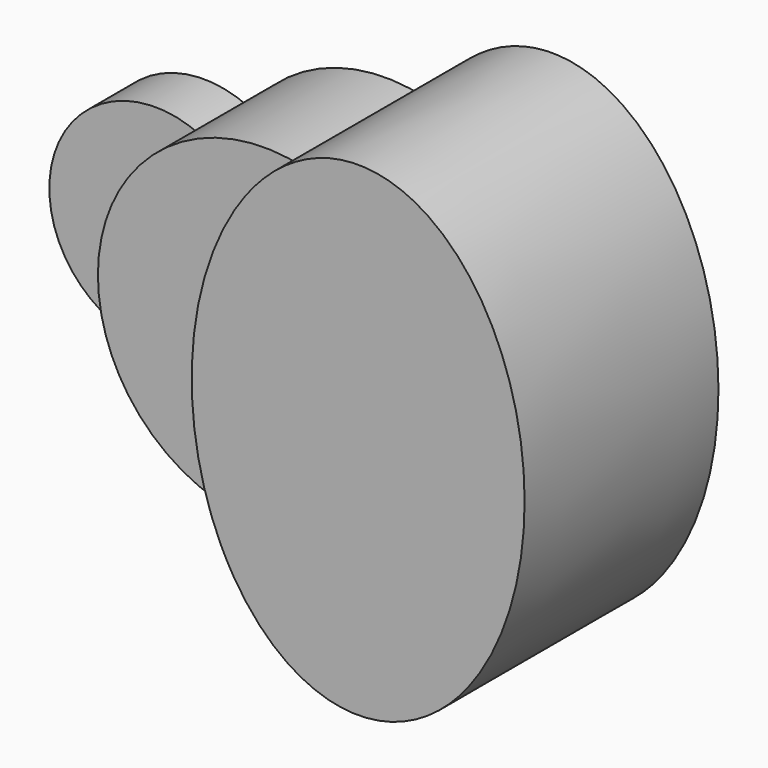
from build123d import *

# Parameters (mm, degrees)
F1_DEPTH = 25.4
F2_DEPTH = 63.5
F3_DEPTH = 101.6


with BuildPart() as f1:
    # F0 (on Front) → F1 (new body)
    with BuildSketch(Plane.XZ):
        with BuildLine():
            ThreePointArc((-57.1034502667, -40.1388127413), (-66.5496185808, -21.0493844897), (-69.7992, 0))
            ThreePointArc((-69.7992, 0), (-66.5496185808, 21.0493844897), (-57.1034502667, 40.1388127413))
            ThreePointArc((-57.1034502667, 40.1388127413), (-120.65, 0), (-57.1034502667, -40.1388127413))
        make_face()
    extrude(amount=F1_DEPTH)


with BuildPart() as f2:
    # F0 (on Front) → F2 (new body)
    with BuildSketch(Plane.XZ):
        with BuildLine():
            Line((-69.7992, 0), (-31.75, 0))
            ThreePointArc((-31.75, 0), (-38.6191263031, 23.7377427776), (-57.1034502667, 40.1388127413))
            ThreePointArc((-57.1034502667, 40.1388127413), (-66.5496185808, 21.0493844897), (-69.7992, 0))
        make_face()
        with BuildLine():
            Line((-31.75, 0), (0, 0))
            add(Edge.make_bspline(
                [(17.6498422173, 67.5308180785), (0, 38.6523396662), (0, 0)],
                knots=[0.8437397225, 0.8437397225, 0.8437397225, 1.5707963268, 1.5707963268, 1.5707963268], degree=2, weights=[1, 0.9346480709, 1]))
            ThreePointArc((17.6498422173, 67.5308180785), (-24.0151470145, 65.5377832591), (-57.1034502667, 40.1388127413))
            ThreePointArc((-57.1034502667, 40.1388127413), (-38.6191263031, 23.7377427776), (-31.75, 0))
        make_face()
        with BuildLine():
            add(Edge.make_bspline(
                [(0, 0), (0, -38.6523396662), (17.6498422173, -67.5308180785)],
                knots=[1.5707963268, 1.5707963268, 1.5707963268, 2.2978529311, 2.2978529311, 2.2978529311], degree=2, weights=[1, 0.9346480709, 1]))
            Line((0, 0), (-31.75, 0))
            ThreePointArc((-31.75, 0), (-38.6191263031, -23.7377427776), (-57.1034502667, -40.1388127413))
            ThreePointArc((-57.1034502667, -40.1388127413), (-24.0151470145, -65.5377832591), (17.6498422173, -67.5308180785))
        make_face()
        with BuildLine():
            ThreePointArc((-57.1034502667, -40.1388127413), (-38.6191263031, -23.7377427776), (-31.75, 0))
            Line((-31.75, 0), (-69.7992, 0))
            ThreePointArc((-69.7992, 0), (-66.5496185808, -21.0493844897), (-57.1034502667, -40.1388127413))
        make_face()
    extrude(amount=F2_DEPTH)


with BuildPart() as f3:
    # F0 (on Front) → F3 (new body)
    with BuildSketch(Plane.XZ):
        with BuildLine():
            add(Edge.make_bspline(
                [(17.6498422173, 67.5308180785), (0, 38.6523396662), (0, 0)],
                knots=[0.8437397225, 0.8437397225, 0.8437397225, 1.5707963268, 1.5707963268, 1.5707963268], degree=2, weights=[1, 0.9346480709, 1]))
            add(Edge.make_bspline(
                [(0, 0), (0, -38.6523396662), (17.6498422173, -67.5308180785)],
                knots=[1.5707963268, 1.5707963268, 1.5707963268, 2.2978529311, 2.2978529311, 2.2978529311], degree=2, weights=[1, 0.9346480709, 1]))
            ThreePointArc((17.6498422173, -67.5308180785), (55.2443353998, -42.6613610528), (69.7992, 0))
            ThreePointArc((69.7992, 0), (55.2443353998, 42.6613610528), (17.6498422173, 67.5308180785))
        make_face()
        with BuildLine():
            add(Edge.make_bspline(
                [(69.7992, 101.6), (38.4721195133, 101.6), (17.6498422173, 67.5308180785)],
                knots=[0, 0, 0, 0.8437397225, 0.8437397225, 0.8437397225], degree=2, weights=[1, 0.912324889, 1]))
            ThreePointArc((17.6498422173, 67.5308180785), (55.2443353998, 42.6613610528), (69.7992, 0))
            Line((69.7992, 0), (69.7992, 101.6))
        make_face()
        with BuildLine():
            ThreePointArc((69.7992, 0), (55.2443353998, -42.6613610528), (17.6498422173, -67.5308180785))
            add(Edge.make_bspline(
                [(17.6498422173, -67.5308180785), (89.3242584583, -184.803712456), (133.4787473943, -41.601856228), (177.6332363303, 101.6), (69.7992, 101.6)],
                knots=[2.2978529311, 2.2978529311, 2.2978529311, 4.2905191191, 4.2905191191, 6.2831853072, 6.2831853072, 6.2831853072], degree=2, weights=[1, 0.5433842614, 1, 0.5433842614, 1]))
            Line((69.7992, 101.6), (69.7992, 0))
        make_face()
    extrude(amount=F3_DEPTH)


solid = Compound([f1.part, f2.part, f3.part])
